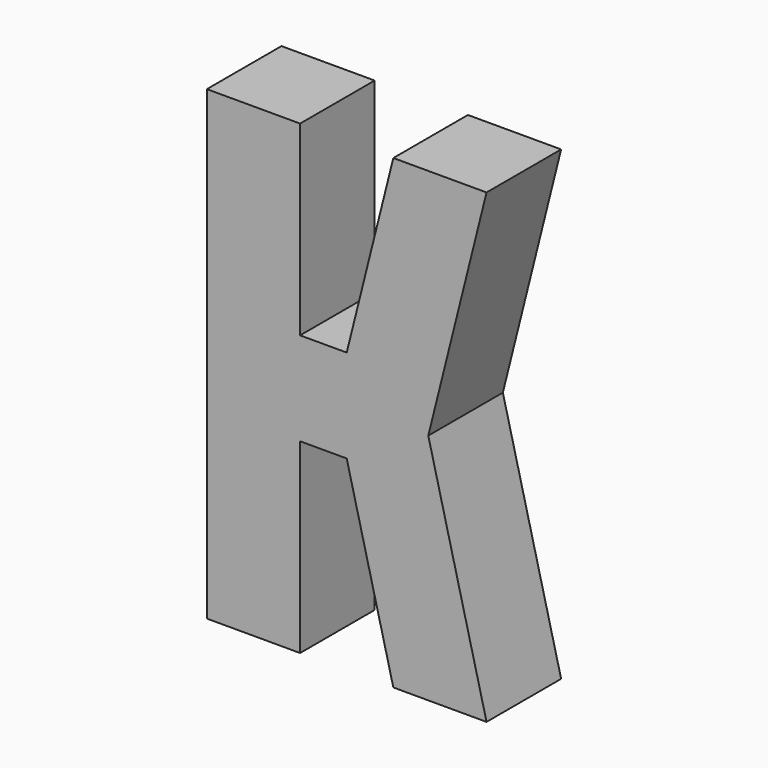
from build123d import *

# Parameters (mm, degrees)
F0_W     = 40
F0_H     = 40
F1_DEPTH = 40


with BuildPart() as f1:
    # F0 (on Front) → F1 (new body)
    with BuildSketch(Plane.XZ):
        with Locations((-40, 80)):
            Rectangle(F0_W, F0_H)
        with Locations((-40, 40)):
            Rectangle(F0_W, F0_H)
        with Locations((-40, 0)):
            Rectangle(F0_W, F0_H)
        with Locations((-40, -40)):
            Rectangle(F0_W, F0_H)
        with Locations((-40, -80)):
            Rectangle(F0_W, F0_H)
        Polygon((20, -20), (20, 20), (0, 20), (-20, 20), (-20, -20), (0, -20), align=None)
        Polygon((35, 0), (40, 20), (20, 20), (20, -20), (40, -20), align=None)
        Polygon((40, -20), (20, -20), (20, -60), (50, -60), align=None)
        Polygon((50, -60), (20, -60), (20, -100), (60, -100), align=None)
        Polygon((20, -60), (20, -20), (0, -20), (10, -60), align=None)
        Polygon((20, -100), (20, -60), (10, -60), align=None)
        Polygon((20, 20), (20, 60), (10, 60), (0, 20), align=None)
        Polygon((40, 20), (50, 60), (20, 60), (20, 20), align=None)
        Polygon((50, 60), (60, 100), (20, 100), (20, 60), align=None)
        Polygon((20, 60), (20, 100), (10, 60), align=None)
    extrude(amount=F1_DEPTH)


solid = f1.part
